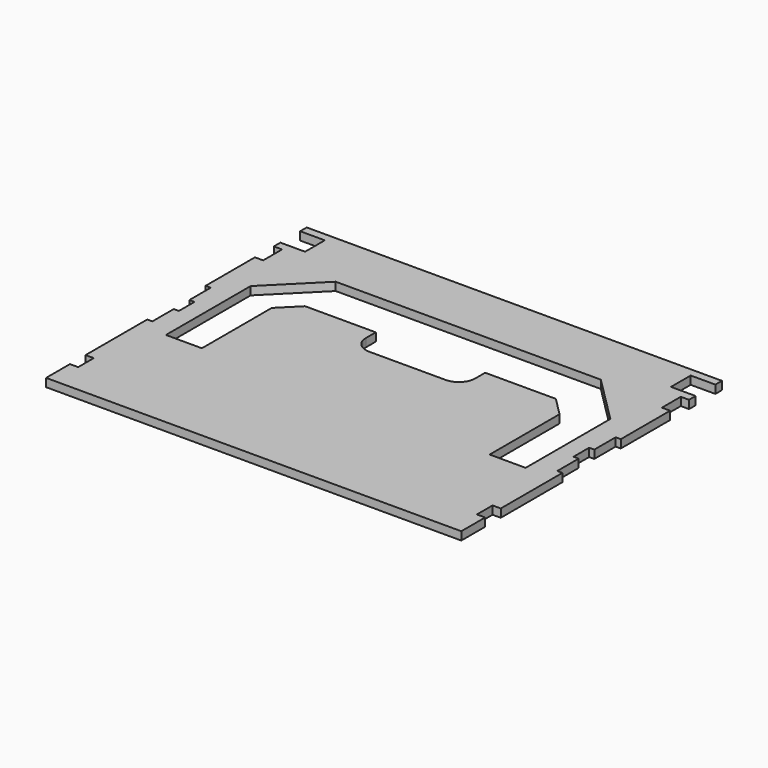
from build123d import *

# Parameters (mm, degrees)
F0_W     = 404
F0_H     = 317
F1_DEPTH = 8
F2_W     = 8
F2_H     = 19
F2_H_2   = 23
F2_W_2   = 24
F2_H_3   = 24
F3_DEPTH = 8
F5_DEPTH = 8.001


with BuildPart() as f1:
    # F0 (on Top) → F1 (new body)
    with BuildSketch(Plane.XY):
        Rectangle(F0_W, F0_H)
    extrude(amount=F1_DEPTH)

    # F2 (on face) → F3 (cut)
    with BuildSketch(Plane.XY.offset(8)):
        with Locations((-198, -120)):
            Rectangle(F2_W, F2_H)
        Polygon((-202, 35.5), (-202, -35.5), (-197, -35.5), (-197, -9.5), (-192, -9.5), (-192, 9.5), (-197, 9.5), (-197, 35.5), align=None)
        with Locations((-198, 107)):
            Rectangle(F2_W, F2_H_2)
        with Locations((-190, 138.5)):
            Rectangle(F2_W_2, F2_H_3)
        Polygon((192, -9.5), (197, -9.5), (197, -35.5), (202, -35.5), (202, 35.5), (197, 35.5), (197, 9.5), (192, 9.5), align=None)
        with Locations((198, -120)):
            Rectangle(F2_W, F2_H)
        with Locations((198, 107)):
            Rectangle(F2_W, F2_H_2)
        with Locations((190, 138.5)):
            Rectangle(F2_W_2, F2_H_3)
    extrude(amount=-F3_DEPTH, mode=Mode.SUBTRACT)

    # F4 (on face) → F5 (cut, through all)
    with BuildSketch(Plane.XY.offset(8)):
        with BuildLine():
            Line((-175, 56.5), (-175, -46.5))
            Line((-175, -46.5), (-140, -46.5))
            Line((-140, -46.5), (-140, 38.5))
            Line((-140, 38.5), (-122, 56.5))
            Line((-122, 56.5), (-53.216133, 56.5))
            Line((-53.216133, 56.5), (-53.216133, 44.5))
            ThreePointArc((-53.216133, 44.5), (-48.529842, 33.186292), (-37.216133, 28.5))
            Line((-37.216133, 28.5), (37.216133, 28.5))
            ThreePointArc((37.216133, 28.5), (48.529842, 33.186292), (53.216133, 44.5))
            Line((53.216133, 44.5), (53.216133, 56.5))
            Line((53.216133, 56.5), (122, 56.5))
            Line((122, 56.5), (140, 38.5))
            Line((140, 38.5), (140, -46.5))
            Line((140, -46.5), (175, -46.5))
            Line((175, -46.5), (175, 56.5))
            Line((175, 56.5), (129, 102.5))
            Line((129, 102.5), (-129, 102.5))
            Line((-129, 102.5), (-175, 56.5))
        make_face()
    extrude(amount=-F5_DEPTH, mode=Mode.SUBTRACT)


solid = f1.part
